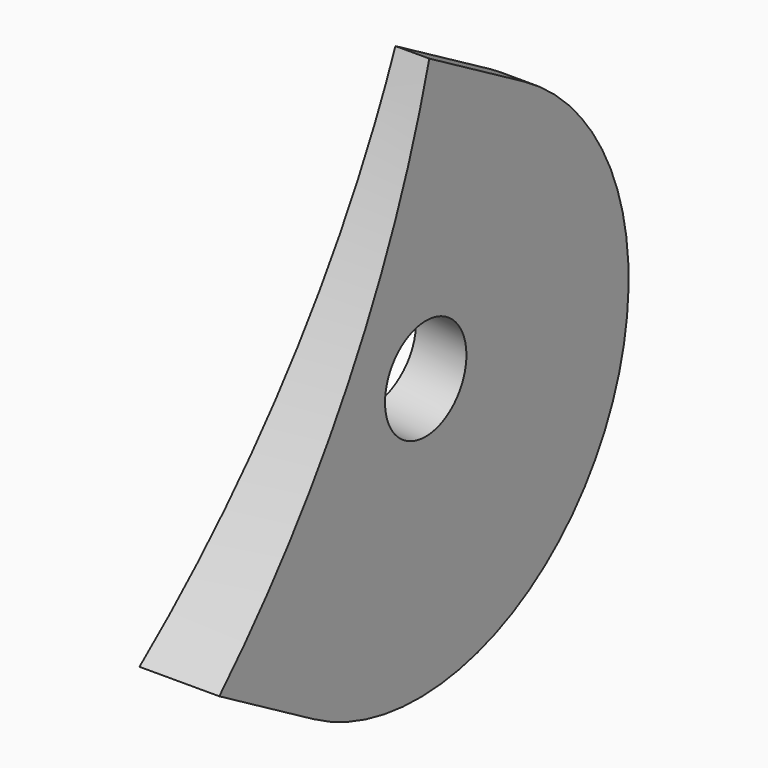
from build123d import *

# Parameters (mm, degrees)
PAD040_DEPTH         = 42
SKETCH121_W          = 51.449978
SKETCH121_H          = 41.216857
POCKET061_DEPTH      = 2.357074
POCKET061_DEPTH_BACK = 0.001
SKETCH122_R          = 1.5
POCKET062_DEPTH      = 9.321248
POCKET062_DEPTH_BACK = 0.001


with BuildPart() as part:
    # Sketch120 (on DatumPlane) → Pad040 (new body)
    with BuildSketch(Plane(origin=(6, 0, 0), x_dir=(1, 0, 0), z_dir=(0, -0.866025, 0.5))):
        Polygon((-6, 7.75), (-6, -7.75), (-8.356074, -7.75), (-7, 7.75), align=None)
    extrude(amount=-PAD040_DEPTH)

    # Sketch121 → Pocket061 (cut, two sides)
    with BuildSketch(Plane.YZ) as pocket061_sk:
        with Locations((16.010519, -12.541656)):
            Rectangle(SKETCH121_W, SKETCH121_H)
        with BuildLine():
            ThreePointArc((21.223867, -21.202535), (25.980762, -15), (28.973867, -7.779141))
            Line((28.973867, -7.779141), (32.453838, -9.788303))
            ThreePointArc((24.703838, -23.211697), (35.290535, -20.375), (32.453838, -9.788303))
            Line((21.223867, -21.202535), (24.703838, -23.211697))
        make_face(mode=Mode.SUBTRACT)
    extrude(amount=-POCKET061_DEPTH, mode=Mode.SUBTRACT)
    extrude(pocket061_sk.sketch, amount=POCKET061_DEPTH_BACK, mode=Mode.SUBTRACT)

    # Sketch122 (on DatumPlane) → Pocket062 (cut, two sides)
    with BuildSketch(Plane(origin=(6, 0, 0), x_dir=(0.087156, 0.498097, 0.86273), z_dir=(0.996195, -0.043578, -0.075479))) as pocket062_sk:
        with Locations((0, -33)):
            Circle(SKETCH122_R)
    extrude(amount=-POCKET062_DEPTH, mode=Mode.SUBTRACT)
    extrude(pocket062_sk.sketch, amount=POCKET062_DEPTH_BACK, mode=Mode.SUBTRACT)


with BuildPart() as part_1:
    # Body022023 placement: moved
    add(part.part.moved(Location((123, 0, 834))))


solid = part_1.part
